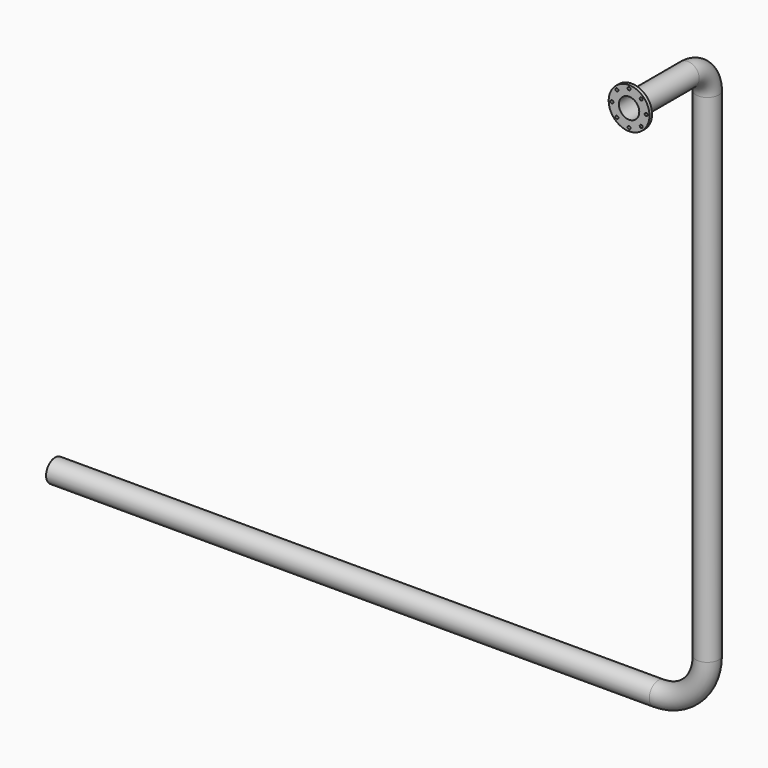
from build123d import *

# Parameters (mm, degrees)
F0_R     = 70
F0_R_2   = 62.5
F0_R_3   = 125
F0_R_4   = 9
F5_DEPTH = 20


with BuildPart() as f4:
    # F4: sweep along a path in F1, F3
    with BuildLine(Plane.YZ) as f4_path:
        Line((0, 0), (450, 0))
        ThreePointArc((450, 0), (556.066017178, -43.933982822), (600, -150))
    with BuildLine(Plane.XZ.offset(-600)) as f4_path_2:
        Line((0, -150), (0, -3200))
        ThreePointArc((0, -3200), (-87.867965644, -3412.132034356), (-300, -3500))
        Line((-300, -3500), (-4000, -3500))
    # F0 (on Front) → F4 (sweep)
    with BuildSketch(Plane.XZ):
        Circle(F0_R)
        Circle(F0_R_2, mode=Mode.SUBTRACT)
    sweep(path=f4_path.line + f4_path_2.line)

    # F0 (on Front) → F5 (join)
    with BuildSketch(Plane.XZ):
        Circle(F0_R_3)
        with Locations((-74.2462120246, -74.2462120246)):
            Circle(F0_R_4, mode=Mode.SUBTRACT)
        with Locations((0, -105)):
            Circle(F0_R_4, mode=Mode.SUBTRACT)
        with Locations((74.2462120246, -74.2462120246)):
            Circle(F0_R_4, mode=Mode.SUBTRACT)
        with Locations((-105, 0)):
            Circle(F0_R_4, mode=Mode.SUBTRACT)
        with Locations((-74.2462120246, 74.2462120246)):
            Circle(F0_R_4, mode=Mode.SUBTRACT)
        Circle(F0_R, mode=Mode.SUBTRACT)
        with Locations((105, 0)):
            Circle(F0_R_4, mode=Mode.SUBTRACT)
        with Locations((0, 105)):
            Circle(F0_R_4, mode=Mode.SUBTRACT)
        with Locations((74.2462120246, 74.2462120246)):
            Circle(F0_R_4, mode=Mode.SUBTRACT)
    extrude(amount=-F5_DEPTH)


solid = f4.part
